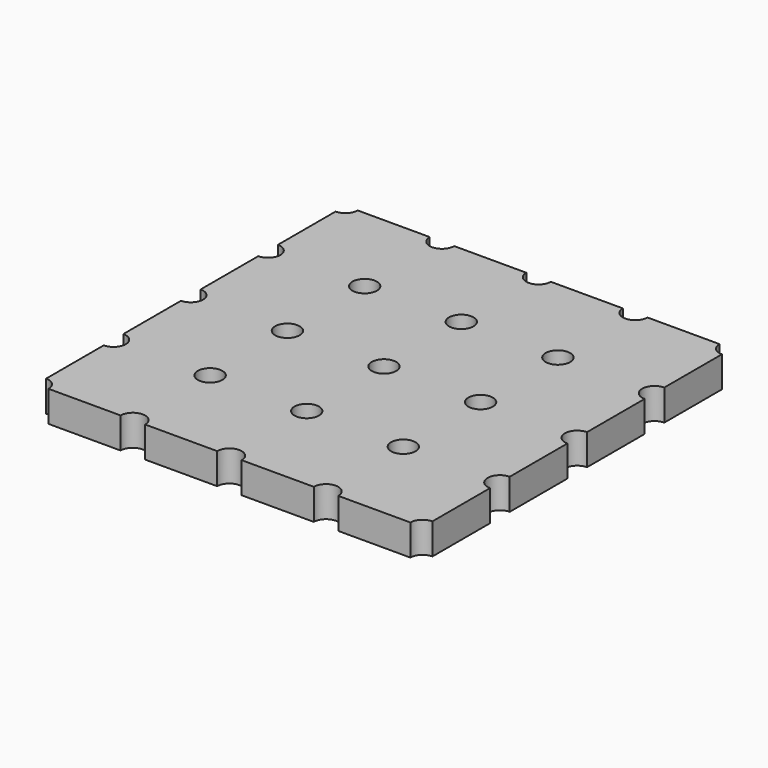
from build123d import *

# Parameters (mm, degrees)
F0_R     = 3.175
F1_DEPTH = 8


with BuildPart() as f1:
    # F0 (on Top) → F1 (new body)
    with BuildSketch(Plane.XY):
        with BuildLine():
            ThreePointArc((-50, -46.825), (-47.754936, -47.754936), (-46.825, -50))
            Line((-46.825, -50), (-28.175, -50))
            ThreePointArc((-28.175, -50), (-25, -46.825), (-21.825, -50))
            Line((-21.825, -50), (-3.175, -50))
            ThreePointArc((-3.175, -50), (0, -46.825), (3.175, -50))
            Line((3.175, -50), (21.825, -50))
            ThreePointArc((21.825, -50), (25, -46.825), (28.175, -50))
            Line((28.175, -50), (46.825, -50))
            ThreePointArc((46.825, -50), (47.754936, -47.754936), (50, -46.825))
            Line((50, -46.825), (50, -28.175))
            ThreePointArc((50, -28.175), (46.825, -25), (50, -21.825))
            Line((50, -21.825), (50, -3.175))
            ThreePointArc((50, -3.175), (46.825, 0), (50, 3.175))
            Line((50, 3.175), (50, 21.825))
            ThreePointArc((50, 21.825), (46.825, 25), (50, 28.175))
            Line((50, 28.175), (50, 46.825))
            ThreePointArc((50, 46.825), (47.754936, 47.754936), (46.825, 50))
            Line((46.825, 50), (28.175, 50))
            ThreePointArc((28.175, 50), (25, 46.825), (21.825, 50))
            Line((21.825, 50), (3.175, 50))
            ThreePointArc((3.175, 50), (0, 46.825), (-3.175, 50))
            Line((-3.175, 50), (-21.825, 50))
            ThreePointArc((-21.825, 50), (-25, 46.825), (-28.175, 50))
            Line((-28.175, 50), (-46.825, 50))
            ThreePointArc((-46.825, 50), (-47.754936, 47.754936), (-50, 46.825))
            Line((-50, 46.825), (-50, 28.175))
            ThreePointArc((-50, 28.175), (-47.754936, 27.245064), (-46.825, 25))
            ThreePointArc((-46.825, 25), (-47.754936, 22.754936), (-50, 21.825))
            Line((-50, 21.825), (-50, 3.175))
            ThreePointArc((-50, 3.175), (-47.754936, 2.245064), (-46.825, 0))
            ThreePointArc((-46.825, 0), (-47.754936, -2.245064), (-50, -3.175))
            Line((-50, -3.175), (-50, -21.825))
            ThreePointArc((-50, -21.825), (-47.754936, -22.754936), (-46.825, -25))
            ThreePointArc((-46.825, -25), (-47.754936, -27.245064), (-50, -28.175))
            Line((-50, -28.175), (-50, -46.825))
        make_face()
        with Locations((-25, -25)):
            Circle(F0_R, mode=Mode.SUBTRACT)
        with Locations((0, -25)):
            Circle(F0_R, mode=Mode.SUBTRACT)
        with Locations((25, -25)):
            Circle(F0_R, mode=Mode.SUBTRACT)
        with Locations((-25, 0)):
            Circle(F0_R, mode=Mode.SUBTRACT)
        with Locations((-25, 25)):
            Circle(F0_R, mode=Mode.SUBTRACT)
        Circle(F0_R, mode=Mode.SUBTRACT)
        with Locations((25, 0)):
            Circle(F0_R, mode=Mode.SUBTRACT)
        with Locations((0, 25)):
            Circle(F0_R, mode=Mode.SUBTRACT)
        with Locations((25, 25)):
            Circle(F0_R, mode=Mode.SUBTRACT)
    extrude(amount=F1_DEPTH)


solid = f1.part
